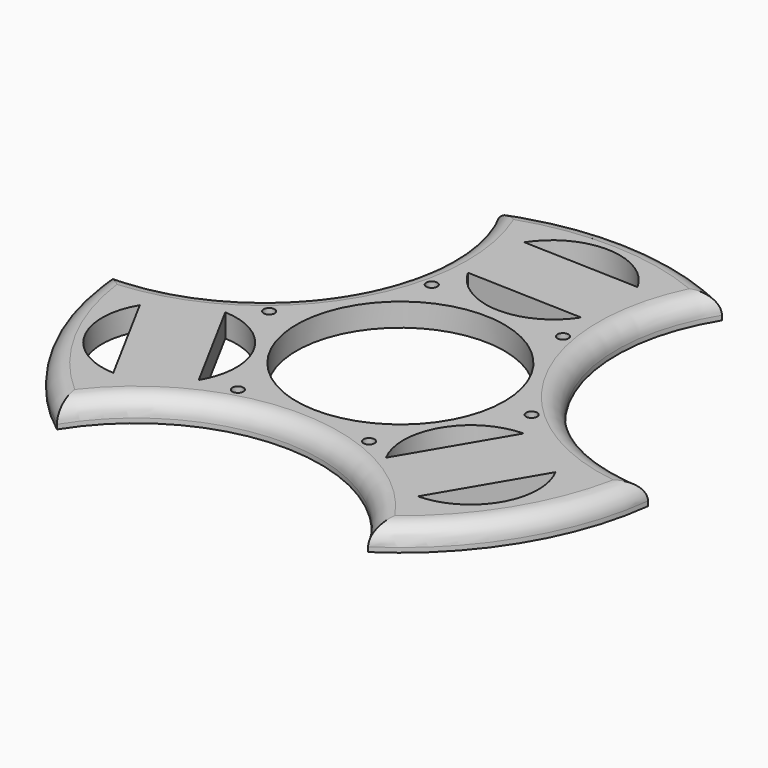
from build123d import *

# Parameters (mm, degrees)
F0_R     = 0.762
F0_R_2   = 14.3129
F1_DEPTH = 3.175
F2_R     = 2.54


with BuildPart() as f1:
    # F0 (on Top) → F1 (new body)
    with BuildSketch(Plane.XY):
        with BuildLine():
            ThreePointArc((37.814818885, -4.6528993857), (16.2183640692, 8.713670097), (16.9939270688, 34.1000944688))
            ThreePointArc((16.9939270688, 34.1000944688), (1.1909176957, 38.0813827879), (-14.8299813197, 35.0953223957))
            ThreePointArc((-14.8299813197, 35.0953223957), (-15.6508840085, 9.7188762367), (-38.0323831061, -2.2688841474))
            ThreePointArc((-38.0323831061, -2.2688841474), (-33.5888120947, -17.9833729335), (-22.9742885145, -30.3939478721))
            ThreePointArc((-22.9742885145, -30.3939478721), (-0.5866848831, -18.4058352173), (20.9920077442, -31.7953709031))
            ThreePointArc((20.9920077442, -31.7953709031), (32.3842423806, -20.0716428185), (37.814818885, -4.6528993857))
        make_face()
        with BuildLine():
            ThreePointArc((-22.6742041591, -21.077906737), (-30.5143778905, -16.2115761649), (-30.2921493088, -6.9866039788))
            Line((-30.2921493088, -6.9866039788), (-22.6742041591, -21.077906737))
        make_face(mode=Mode.SUBTRACT)
        with Locations((-9.7768361415, -15.7612173143)):
            Circle(F0_R, mode=Mode.SUBTRACT)
        with BuildLine():
            ThreePointArc((-22.077246757, -2.5455187134), (-14.2471455868, -7.4172946457), (-14.4593016073, -16.6368214716))
            Line((-14.4593016073, -16.6368214716), (-22.077246757, -2.5455187134))
        make_face(mode=Mode.SUBTRACT)
        with Locations((8.761196518, -16.3475971243)):
            Circle(F0_R, mode=Mode.SUBTRACT)
        with BuildLine():
            ThreePointArc((12.5619529023, -18.1867123268), (12.756507598, -9.1097250706), (20.6001486004, -4.5373247159))
            Line((20.6001486004, -4.5373247159), (12.5619529023, -18.1867123268))
        make_face(mode=Mode.SUBTRACT)
        with Locations((18.5380326595, -0.58637981)):
            Circle(F0_R, mode=Mode.SUBTRACT)
        with BuildLine():
            Line((20.8666791326, -23.0774090058), (28.9048748307, -9.4280213948))
            ThreePointArc((28.9048748307, -9.4280213948), (28.7016006579, -18.4998737054), (20.8666791326, -23.0774090058))
        make_face(mode=Mode.SUBTRACT)
        with Locations((-18.5380326595, 0.58637981)):
            Circle(F0_R, mode=Mode.SUBTRACT)
        with Locations((-8.761196518, 16.3475971243)):
            Circle(F0_R, mode=Mode.SUBTRACT)
        Circle(F0_R_2, mode=Mode.SUBTRACT)
        with BuildLine():
            ThreePointArc((8.554840384, 20.4151336434), (0.3927024044, 16.1488375122), (-7.4634526605, 20.9553546163))
            Line((-7.4634526605, 20.9553546163), (8.554840384, 20.4151336434))
        make_face(mode=Mode.SUBTRACT)
        with Locations((9.7768361415, 15.7612173143)):
            Circle(F0_R, mode=Mode.SUBTRACT)
        with BuildLine():
            Line((8.86910012, 29.7333659897), (-7.1491929245, 30.2735869625))
            ThreePointArc((-7.1491929245, 30.2735869625), (1.0136418787, 34.5605448721), (8.86910012, 29.7333659897))
        make_face(mode=Mode.SUBTRACT)
    extrude(amount=F1_DEPTH)

    # F2
    f2_edges = [f1.edges().sort_by_distance(p)[0] for p in [
        (-0.586685, -18.405835, 3.175),
        (1.190918, 38.081383, 3.175),
        (-15.650884, 9.718876, 3.175),
        (-33.588812, -17.983373, 3.175),
        (16.218364, 8.71367, 3.175),
        (32.384242, -20.071643, 3.175),
    ]]
    fillet(f2_edges, radius=F2_R)


solid = f1.part
